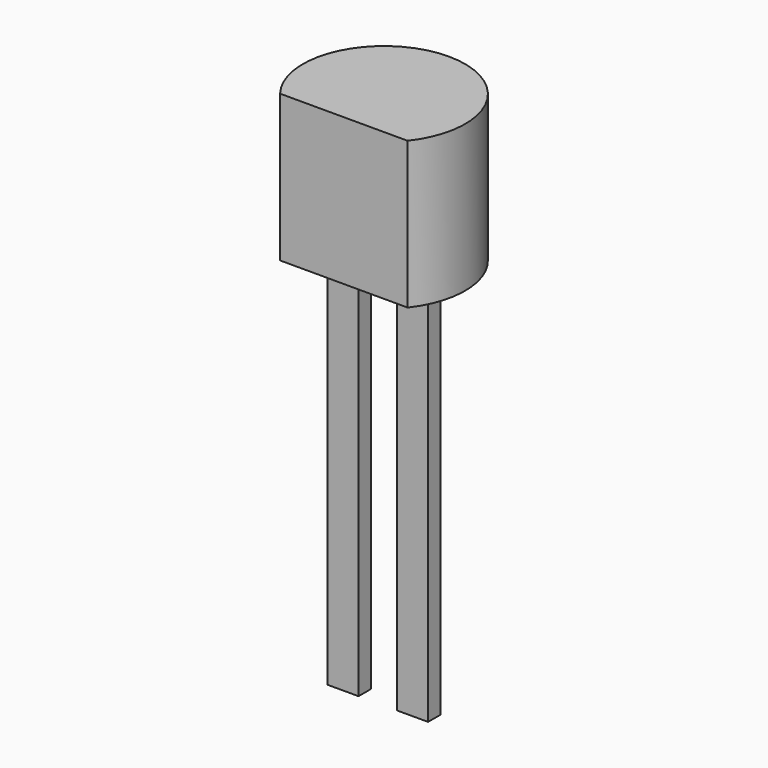
from build123d import *

# Parameters (mm, degrees)
SKETCH001_W  = 0.4
SKETCH001_H  = 0.2
PAD001_DEPTH = 5
PAD_DEPTH    = 1.9


with BuildPart() as pad001:
    # Sketch001 → Pad001 (new body)
    with BuildSketch(Plane.XY.offset(2.5)):
        Rectangle(SKETCH001_W, SKETCH001_H)
        with Locations((0.9, 0)):
            Rectangle(SKETCH001_W, SKETCH001_H)
    extrude(amount=-PAD001_DEPTH)


with BuildPart() as obj1:
    # Sketch → Pad (new body)
    with BuildSketch(Plane.XY.offset(2.5)):
        with BuildLine():
            Line((-0.374621, -0.65), (1.274621, -0.65))
            ThreePointArc((1.274621, -0.65), (0.45, 1.05), (-0.374621, -0.65))
        make_face()
    extrude(amount=PAD_DEPTH)

    # obj1: union Pad001
    add(pad001.part)


solid = obj1.part
